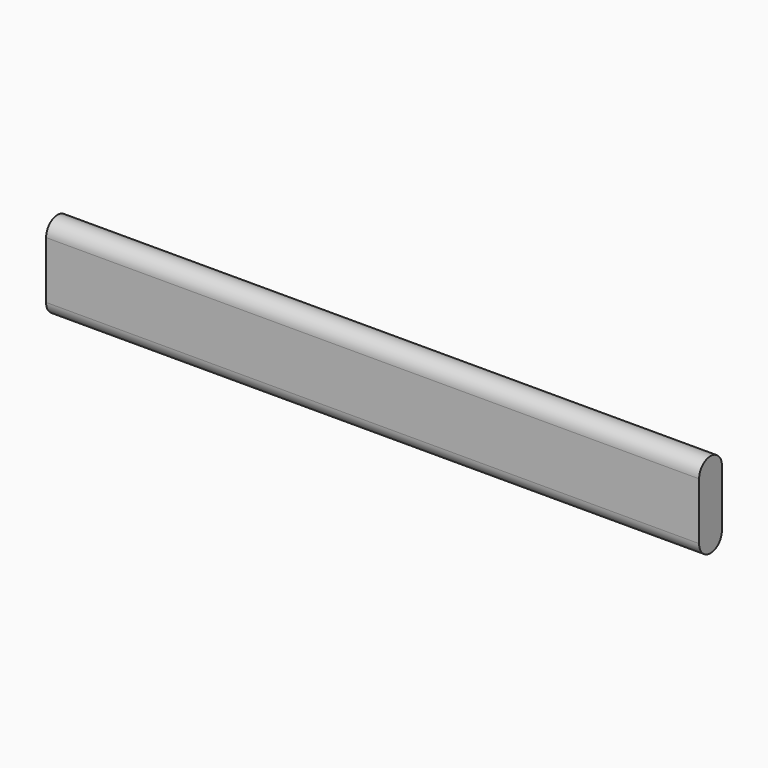
from build123d import *

# Parameters (mm, degrees)
F1_DEPTH = 145.38198


with BuildPart() as f1:
    # F0 (on Right) → F1 (new body, symmetric)
    with BuildSketch(Plane.YZ):
        with BuildLine():
            ThreePointArc((6.35, 12.801725), (0, 19.151725), (-6.35, 12.801725))
            Line((-6.35, 12.801725), (-6.35, -12.598275))
            ThreePointArc((-6.35, -12.598275), (0, -18.948275), (6.35, -12.598275))
            Line((6.35, -12.598275), (6.35, 12.801725))
        make_face()
    extrude(amount=F1_DEPTH, both=True)


solid = f1.part
